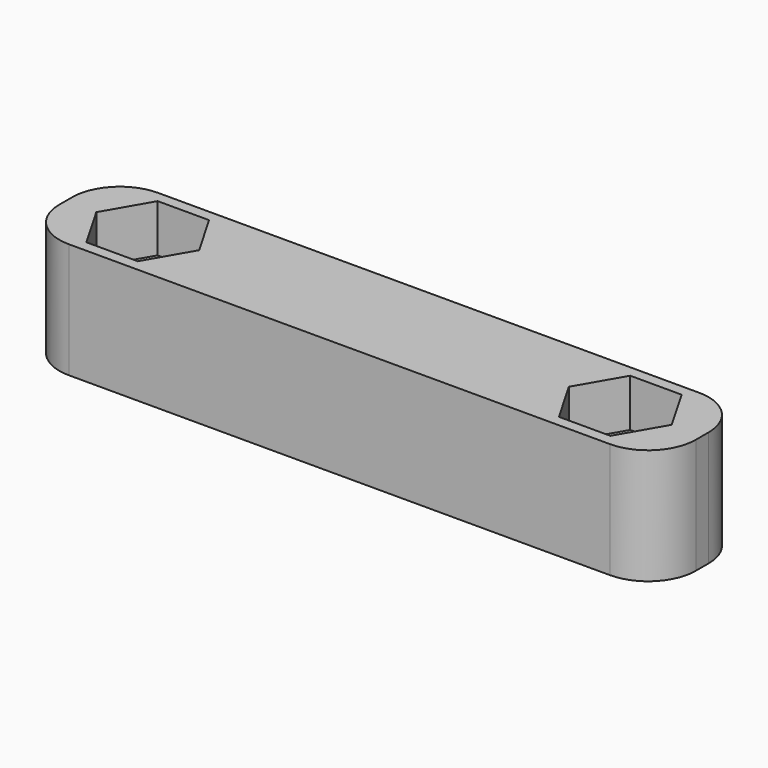
from build123d import *

# Parameters (mm, degrees)
SKETCH_W     = 40
SKETCH_H     = 7
SKETCH_R     = 1.6
PAD_DEPTH    = 7.25
POCKET_DEPTH = 3
FILLET_R     = 3


with BuildPart() as part:
    # Sketch → Pad (new body)
    with BuildSketch(Plane.XY):
        Rectangle(SKETCH_W, SKETCH_H)
        with Locations((-14.85, 0)):
            Circle(SKETCH_R, mode=Mode.SUBTRACT)
        with Locations((14.85, 0)):
            Circle(SKETCH_R, mode=Mode.SUBTRACT)
    extrude(amount=PAD_DEPTH)

    # Sketch001 (on Face8 of Pad) → Pocket (cut)
    with BuildSketch(Plane.XY.offset(7.25)):
        Polygon((-11.616838, 0), (-13.233419, 2.8), (-16.466581, 2.8), (-18.083162, 0), (-16.466581, -2.8), (-13.233419, -2.8), align=None)
        Polygon((11.616838, 0), (13.233419, -2.8), (16.466581, -2.8), (18.083162, 0), (16.466581, 2.8), (13.233419, 2.8), align=None)
    extrude(amount=-POCKET_DEPTH, mode=Mode.SUBTRACT)

    # Fillet
    fillet_edges = [part.edges().sort_by_distance(p)[0] for p in [
        (20, -3.5, 3.625),
        (20, 3.5, 3.625),
        (-20, 3.5, 3.625),
        (-20, -3.5, 3.625),
    ]]
    fillet(fillet_edges, radius=FILLET_R)


solid = part.part
